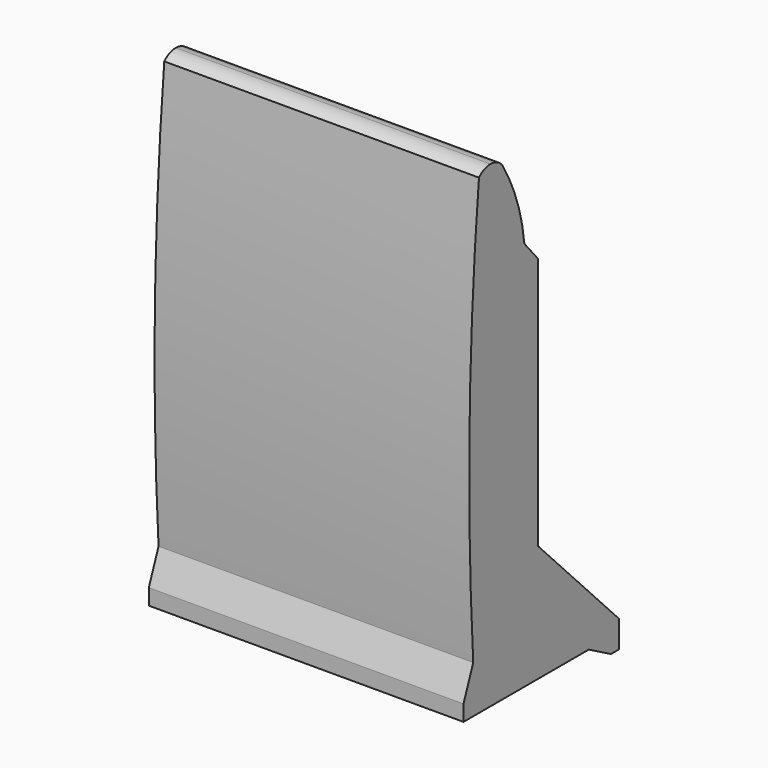
from build123d import *

# Parameters (mm, degrees)
F0_W     = 237.9
F0_H     = 172.5
F1_DEPTH = 372.37
F2_W     = 25.4119695179
F2_H     = 12.0225070381
F3_DEPTH = 10000


with BuildPart() as f1:
    # F0 (on Top) → F1 (new body)
    with BuildSketch(Plane.XY):
        with Locations((10.3618409485, -9.4246996395)):
            Rectangle(F0_W, F0_H)
    extrude(amount=F1_DEPTH)

    # F2 (on face) → F3 (cut)
    with BuildSketch(Plane(origin=(-108.5881590515, 0, 0), x_dir=(0, -1, 0), z_dir=(-1, 0, 0))):
        Polygon((-48.1057920037, 11.4538870962), (-69.0753003605, 0), (95.6746996395, 0), (95.6746996395, 11.4538870962), (70.2627301216, 11.4538870962), align=None)
        with BuildLine():
            Line((-76.8253003605, 372.37), (-76.8253003605, 20.25))
            Line((-76.8253003605, 20.25), (-0.3253003605, 99.6402544397))
            Line((-0.3253003605, 99.6402544397), (-0.3253003605, 270.6402544397))
            Line((-0.3253003605, 270.6402544397), (-0.3253003605, 290.8902544397))
            Line((-0.3253003605, 290.8902544397), (12.7581588021, 306.3461787518))
            ThreePointArc((12.7581588021, 306.3461787518), (19.9005189161, 338.2671723305), (34.0408731478, 367.7631639438))
            ThreePointArc((34.0408731478, 367.7631639438), (38.9792544635, 371.1703251387), (44.8577863937, 372.37))
            Line((44.8577863937, 372.37), (-76.8253003605, 372.37))
        make_face()
        with BuildLine():
            Line((95.6746996395, 372.37), (44.8577863937, 372.37))
            ThreePointArc((44.8577863937, 372.37), (50.7363183238, 371.1703251387), (55.6746996395, 367.7631639438))
            ThreePointArc((55.6746996395, 367.7631639438), (64.5860755247, 207.6113335166), (61.0840586575, 47.25))
            Line((61.0840586575, 47.25), (70.2627301216, 23.4763941343))
            Line((70.2627301216, 23.4763941343), (95.6746996395, 23.4763941343))
            Line((95.6746996395, 23.4763941343), (95.6746996395, 372.37))
        make_face()
        with Locations((82.9687148806, 17.4651406152)):
            Rectangle(F2_W, F2_H)
    extrude(amount=-F3_DEPTH, mode=Mode.SUBTRACT)


solid = f1.part
